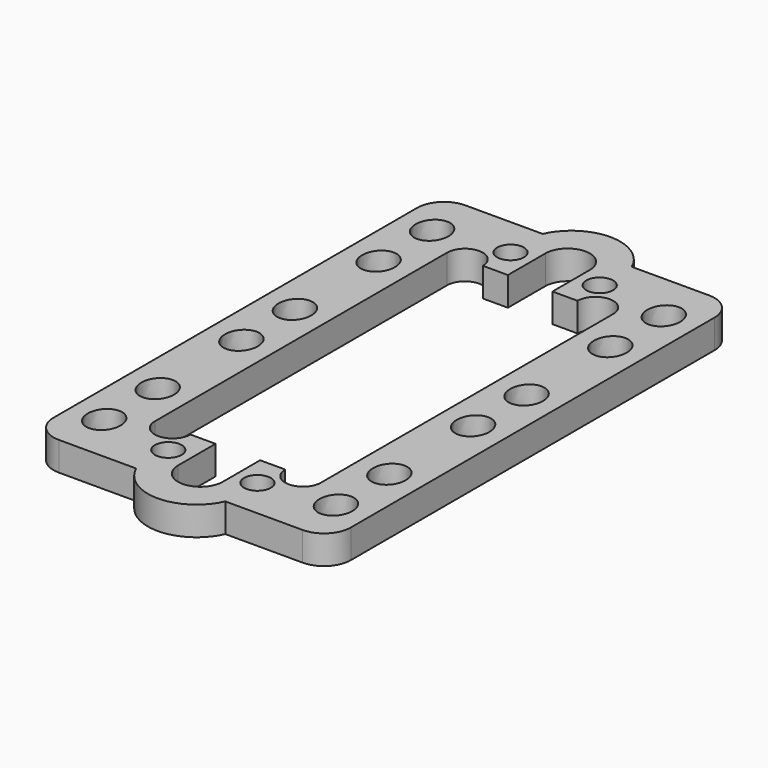
from build123d import *

# Parameters (mm, degrees)
F1_DEPTH = 3.23
F2_R     = 3
F4_DEPTH = 3.231
F5_R     = 1.5
F6_DEPTH = 3.231
F8_DEPTH = 25


with BuildPart() as f1:
    # F0 (on Top) → F1 (new body)
    with BuildSketch(Plane.XY):
        with BuildLine():
            Line((-5, 28.5), (-16.675, 28.5))
            Line((-16.675, 28.5), (-16.675, -28.5))
            Line((-16.675, -28.5), (-5, -28.5))
            ThreePointArc((-5, -28.5), (0, -31.75), (5, -28.5))
            Line((5, -28.5), (16.675, -28.5))
            Line((16.675, -28.5), (16.675, 28.5))
            Line((16.675, 28.5), (5, 28.5))
            ThreePointArc((5, 28.5), (0, 31.75), (-5, 28.5))
        make_face()
        with BuildLine():
            Line((-9.318182, -20.5), (-9.318182, 20.5))
            Line((-9.318182, 20.5), (-2.5, 20.5))
            Line((-2.5, 20.5), (-2.5, 25.75))
            ThreePointArc((-2.5, 25.75), (0, 28.25), (2.5, 25.75))
            Line((2.5, 25.75), (2.5, 20.5))
            Line((2.5, 20.5), (9.318182, 20.5))
            Line((9.318182, 20.5), (9.318182, -20.5))
            Line((9.318182, -20.5), (2.5, -20.5))
            Line((2.5, -20.5), (2.5, -25.75))
            ThreePointArc((2.5, -25.75), (0, -28.25), (-2.5, -25.75))
            Line((-2.5, -25.75), (-2.5, -20.5))
            Line((-2.5, -20.5), (-9.318182, -20.5))
        make_face(mode=Mode.SUBTRACT)
    extrude(amount=F1_DEPTH)

    # F2
    f2_edges = [f1.edges().sort_by_distance(p)[0] for p in [
        (16.675, 28.5, 1.615),
        (-16.675, 28.5, 1.615),
        (-16.675, -28.5, 1.615),
        (16.675, -28.5, 1.615),
    ]]
    fillet(f2_edges, radius=F2_R)

    # F3 (on face) → F4 (cut, through all)
    with BuildSketch(Plane.XY.offset(3.23)):
        with BuildLine():
            Line((-9.318182, 20.5), (-5.318182, 20.5))
            ThreePointArc((-5.318182, 20.5), (-7.318182, 22.5), (-9.318182, 20.5))
        make_face()
        with BuildLine():
            Line((5.318182, 20.5), (9.318182, 20.5))
            ThreePointArc((9.318182, 20.5), (7.318182, 22.5), (5.318182, 20.5))
        make_face()
        with BuildLine():
            Line((-5.318182, -20.5), (-9.318182, -20.5))
            ThreePointArc((-9.318182, -20.5), (-7.318182, -22.5), (-5.318182, -20.5))
        make_face()
        with BuildLine():
            Line((9.318182, -20.5), (5.318182, -20.5))
            ThreePointArc((5.318182, -20.5), (7.318182, -22.5), (9.318182, -20.5))
        make_face()
    extrude(amount=-F4_DEPTH, mode=Mode.SUBTRACT)

    # F5 (on face) → F6 (cut, through all)
    with BuildSketch(Plane.XY.offset(3.23)):
        with Locations((-5, 24)):
            Circle(F5_R)
        with Locations((5, 24)):
            Circle(F5_R)
        with Locations((-5, -24)):
            Circle(F5_R)
        with Locations((5, -24)):
            Circle(F5_R)
    extrude(amount=-F6_DEPTH, mode=Mode.SUBTRACT)

    # F7 (on face) → F8 (cut)
    with BuildSketch(Plane.XY.offset(3.23)):
        with BuildLine():
            add(Edge.make_bspline(
                [(-12.996591, 25.1), (-16.174904, 25.1), (-14.585748, 21.935), (-12.996591, 18.77), (-11.407434, 21.935), (-9.818278, 25.1), (-12.996591, 25.1)],
                knots=[0, 0, 0, 2.094395, 2.094395, 4.18879, 4.18879, 6.283185, 6.283185, 6.283185], degree=2, weights=[1, 0.5, 1, 0.5, 1, 0.5, 1]))
        make_face()
        with BuildLine():
            add(Edge.make_bspline(
                [(-12.996591, 17.6), (-16.174904, 17.6), (-14.585748, 14.435), (-12.996591, 11.27), (-11.407434, 14.435), (-9.818278, 17.6), (-12.996591, 17.6)],
                knots=[0, 0, 0, 2.094395, 2.094395, 4.18879, 4.18879, 6.283185, 6.283185, 6.283185], degree=2, weights=[1, 0.5, 1, 0.5, 1, 0.5, 1]))
        make_face()
        with BuildLine():
            add(Edge.make_bspline(
                [(-12.996591, 5.86), (-16.174904, 5.86), (-14.585748, 2.695), (-12.996591, -0.47), (-11.407434, 2.695), (-9.818278, 5.86), (-12.996591, 5.86)],
                knots=[0, 0, 0, 2.094395, 2.094395, 4.18879, 4.18879, 6.283185, 6.283185, 6.283185], degree=2, weights=[1, 0.5, 1, 0.5, 1, 0.5, 1]))
        make_face()
        with BuildLine():
            add(Edge.make_bspline(
                [(-12.996591, -1.64), (-16.174904, -1.64), (-14.585748, -4.805), (-12.996591, -7.97), (-11.407434, -4.805), (-9.818278, -1.64), (-12.996591, -1.64)],
                knots=[0, 0, 0, 2.094395, 2.094395, 4.18879, 4.18879, 6.283185, 6.283185, 6.283185], degree=2, weights=[1, 0.5, 1, 0.5, 1, 0.5, 1]))
        make_face()
        with BuildLine():
            add(Edge.make_bspline(
                [(-12.996591, -13.38), (-16.174904, -13.38), (-14.585748, -16.545), (-12.996591, -19.71), (-11.407434, -16.545), (-9.818278, -13.38), (-12.996591, -13.38)],
                knots=[0, 0, 0, 2.094395, 2.094395, 4.18879, 4.18879, 6.283185, 6.283185, 6.283185], degree=2, weights=[1, 0.5, 1, 0.5, 1, 0.5, 1]))
        make_face()
        with BuildLine():
            add(Edge.make_bspline(
                [(-12.996591, -20.88), (-16.174904, -20.88), (-14.585748, -24.045), (-12.996591, -27.21), (-11.407434, -24.045), (-9.818278, -20.88), (-12.996591, -20.88)],
                knots=[0, 0, 0, 2.094395, 2.094395, 4.18879, 4.18879, 6.283185, 6.283185, 6.283185], degree=2, weights=[1, 0.5, 1, 0.5, 1, 0.5, 1]))
        make_face()
        with BuildLine():
            add(Edge.make_bspline(
                [(12.996591, 25.1), (9.818278, 25.1), (11.407434, 21.935), (12.996591, 18.77), (14.585748, 21.935), (16.174904, 25.1), (12.996591, 25.1)],
                knots=[0, 0, 0, 2.094395, 2.094395, 4.18879, 4.18879, 6.283185, 6.283185, 6.283185], degree=2, weights=[1, 0.5, 1, 0.5, 1, 0.5, 1]))
        make_face()
        with BuildLine():
            add(Edge.make_bspline(
                [(12.996591, 17.6), (9.818278, 17.6), (11.407434, 14.435), (12.996591, 11.27), (14.585748, 14.435), (16.174904, 17.6), (12.996591, 17.6)],
                knots=[0, 0, 0, 2.094395, 2.094395, 4.18879, 4.18879, 6.283185, 6.283185, 6.283185], degree=2, weights=[1, 0.5, 1, 0.5, 1, 0.5, 1]))
        make_face()
        with BuildLine():
            add(Edge.make_bspline(
                [(12.996591, 5.86), (9.818278, 5.86), (11.407434, 2.695), (12.996591, -0.47), (14.585748, 2.695), (16.174904, 5.86), (12.996591, 5.86)],
                knots=[0, 0, 0, 2.094395, 2.094395, 4.18879, 4.18879, 6.283185, 6.283185, 6.283185], degree=2, weights=[1, 0.5, 1, 0.5, 1, 0.5, 1]))
        make_face()
        with BuildLine():
            add(Edge.make_bspline(
                [(12.996591, -1.64), (9.818278, -1.64), (11.407434, -4.805), (12.996591, -7.97), (14.585748, -4.805), (16.174904, -1.64), (12.996591, -1.64)],
                knots=[0, 0, 0, 2.094395, 2.094395, 4.18879, 4.18879, 6.283185, 6.283185, 6.283185], degree=2, weights=[1, 0.5, 1, 0.5, 1, 0.5, 1]))
        make_face()
        with BuildLine():
            add(Edge.make_bspline(
                [(12.996591, -13.38), (9.818278, -13.38), (11.407434, -16.545), (12.996591, -19.71), (14.585748, -16.545), (16.174904, -13.38), (12.996591, -13.38)],
                knots=[0, 0, 0, 2.094395, 2.094395, 4.18879, 4.18879, 6.283185, 6.283185, 6.283185], degree=2, weights=[1, 0.5, 1, 0.5, 1, 0.5, 1]))
        make_face()
        with BuildLine():
            add(Edge.make_bspline(
                [(12.996591, -20.88), (9.818278, -20.88), (11.407434, -24.045), (12.996591, -27.21), (14.585748, -24.045), (16.174904, -20.88), (12.996591, -20.88)],
                knots=[0, 0, 0, 2.094395, 2.094395, 4.18879, 4.18879, 6.283185, 6.283185, 6.283185], degree=2, weights=[1, 0.5, 1, 0.5, 1, 0.5, 1]))
        make_face()
    extrude(amount=-F8_DEPTH, mode=Mode.SUBTRACT)


solid = f1.part
